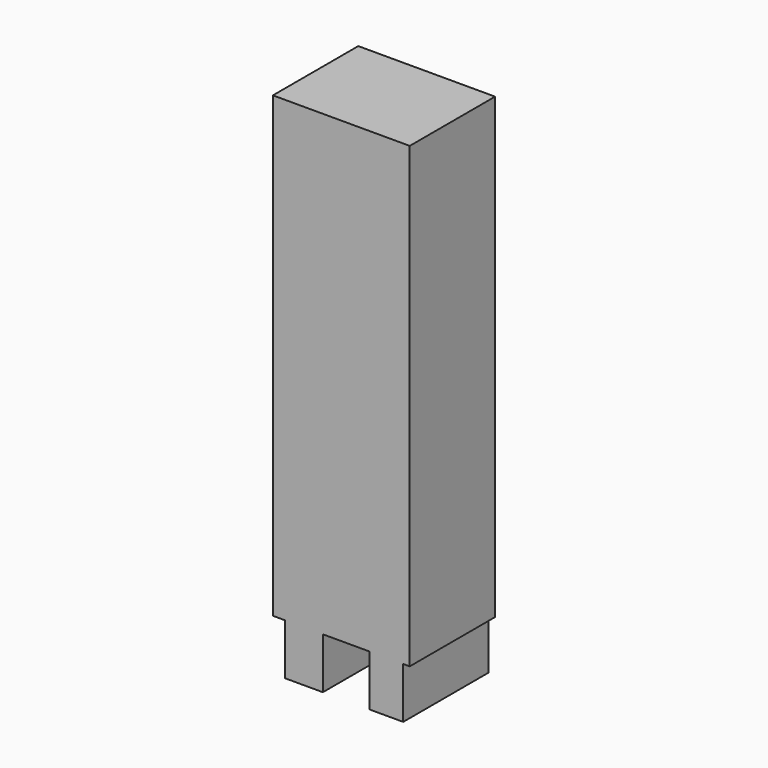
from build123d import *

# Parameters (mm, degrees)
F0_W     = 9.047981
F0_H     = 12.150146
F0_W_2   = 8.013925
F1_DEPTH = 25.4


with BuildPart() as f1:
    # F0 (on Front) → F1 (new body)
    with BuildSketch(Plane.XZ):
        Polygon((9.565009, 49.763896), (-23.007723, 49.763896), (-23.007723, -59.328899), (-20.164071, -59.328899), (-11.11609, -59.328899), (0, -59.328899), (8.013925, -59.328899), (9.565009, -59.328899), align=None)
        with Locations((-15.64008, -65.403972)):
            Rectangle(F0_W, F0_H)
        with Locations((4.006963, -65.403972)):
            Rectangle(F0_W_2, F0_H)
    extrude(amount=F1_DEPTH)


solid = f1.part
